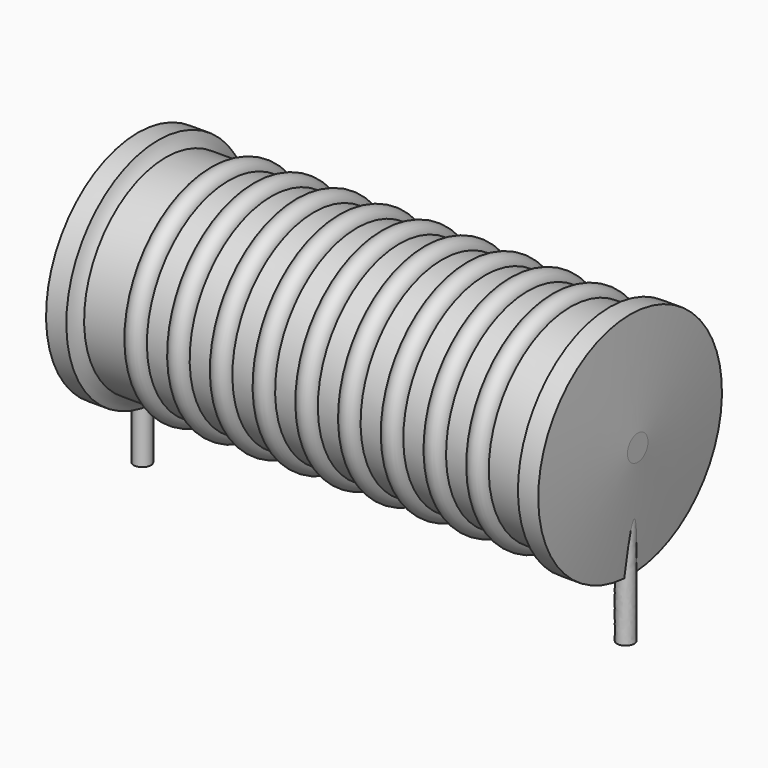
from build123d import *

# Parameters (mm, degrees)
SKETCH_R = 0.45


with BuildPart() as revolution:
    # Sketch002 → Revolution (revolve)
    with BuildSketch(Plane.XZ):
        with BuildLine():
            Line((-0.23495, 12.17), (0.83185, 12.17))
            ThreePointArc((0.83185, 12.17), (0.996057, 11.815134), (1.2319, 11.50325))
            Line((1.2319, 11.50325), (24.1681, 11.50325))
            ThreePointArc((24.1681, 11.50325), (24.403943, 11.815134), (24.56815, 12.17))
            Line((24.56815, 12.17), (25.63495, 12.17))
            ThreePointArc((26.035, 6.81), (25.850024, 9.491123), (25.63495, 12.17))
            Line((26.035, 6.135), (26.035, 6.81))
            Line((-0.635, 6.135), (26.035, 6.135))
            Line((-0.635, 6.135), (-0.635, 6.81))
            ThreePointArc((-0.23495, 12.17), (-0.450024, 9.491123), (-0.635, 6.81))
        make_face()
    revolve(axis=Axis((-0.635, 0, 6.135), (1, 0, 0)))


with BuildPart() as revolution001:
    # Sketch003 → Revolution001 (revolve)
    with BuildSketch(Plane.XZ):
        with BuildLine():
            ThreePointArc((4.544595, 11.39657), (3.983121, 11.958044), (3.421647, 11.39657))
            Line((2.2987, 11.39657), (3.421647, 11.39657))
            Line((2.2987, 11.39657), (2.2987, 10.18957))
            Line((2.2987, 10.18957), (23.6347, 10.18957))
            Line((23.6347, 10.18957), (23.6347, 11.39657))
            Line((22.511753, 11.39657), (23.6347, 11.39657))
            ThreePointArc((22.511753, 11.39657), (21.950279, 11.958044), (21.388805, 11.39657))
            Line((20.265858, 11.39657), (21.388805, 11.39657))
            ThreePointArc((20.265858, 11.39657), (19.704384, 11.958044), (19.142911, 11.39657))
            Line((18.019963, 11.39657), (19.142911, 11.39657))
            ThreePointArc((18.019963, 11.39657), (17.458489, 11.958044), (16.897016, 11.39657))
            Line((15.774068, 11.39657), (16.897016, 11.39657))
            ThreePointArc((15.774068, 11.39657), (15.212595, 11.958044), (14.651121, 11.39657))
            Line((13.528174, 11.39657), (14.651121, 11.39657))
            ThreePointArc((13.528174, 11.39657), (12.9667, 11.958044), (12.405226, 11.39657))
            Line((11.282279, 11.39657), (12.405226, 11.39657))
            ThreePointArc((11.282279, 11.39657), (10.720805, 11.958044), (10.159332, 11.39657))
            Line((9.036384, 11.39657), (10.159332, 11.39657))
            ThreePointArc((9.036384, 11.39657), (8.474911, 11.958044), (7.913437, 11.39657))
            Line((6.790489, 11.39657), (7.913437, 11.39657))
            ThreePointArc((6.790489, 11.39657), (6.229016, 11.958044), (5.667542, 11.39657))
            Line((4.544595, 11.39657), (5.667542, 11.39657))
        make_face()
    revolve(axis=Axis((0.03175, 0, 6.135), (1, 0, 0)))


with BuildPart() as obj1:
    # Sweep: sweep along a path in Sketch001
    with BuildLine(Plane.XZ) as sweep_path:
        Line((0, -3), (0, 5.235))
        ThreePointArc((0, 5.235), (0.263601, 5.871393), (0.899993, 6.135))
        Line((0.899993, 6.135), (24.5, 6.135))
        ThreePointArc((24.5, 6.135), (25.136396, 5.871396), (25.4, 5.235))
        Line((25.4, 5.235), (25.4, -3))
    # Sketch → Sweep (sweep)
    with BuildSketch(Plane.XY.offset(-2)):
        Circle(SKETCH_R)
    sweep(path=sweep_path.line)

    # obj1: union Revolution, Revolution001
    add(revolution.part)
    add(revolution001.part)


solid = obj1.part
